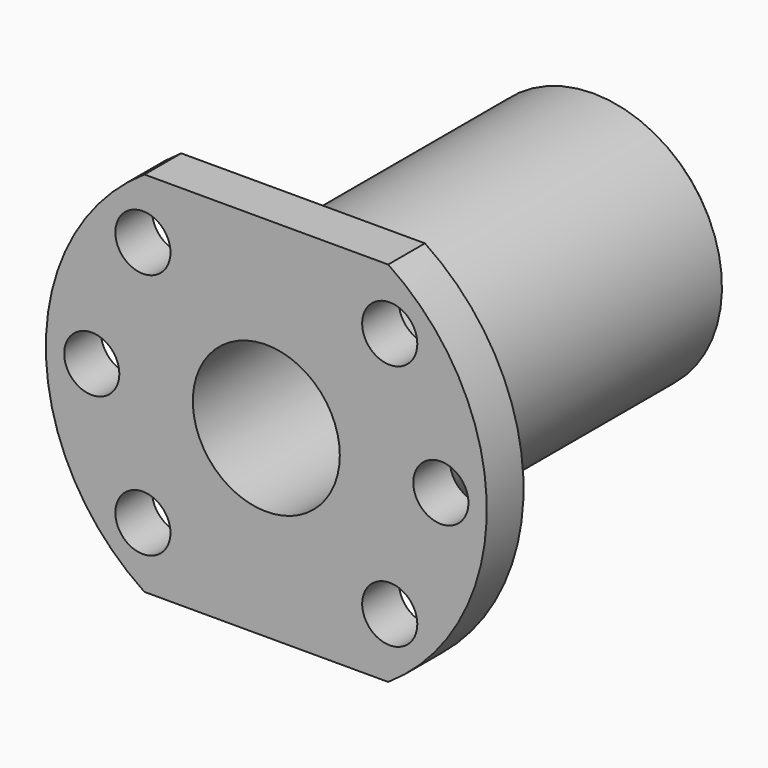
from build123d import *

# Parameters (mm, degrees)
F0_W     = 40
F0_H     = 14
F2_W     = 26.532998
F2_H     = 7.604173
F2_H_2   = 9.77986
F3_DEPTH = 5
F4_R     = 8
F5_DEPTH = 45
F6_R     = 3
F7_DEPTH = 5
F8_SIZE  = 0.5


with BuildPart() as f1:
    # F0 (on Right) → F1 (revolve)
    with BuildSketch(Plane.YZ):
        with Locations((20, 7)):
            Rectangle(F0_W, F0_H)
        Polygon((-5, 0), (0, 0), (0, 14), (0, 24), (-5, 24), align=None)
    revolve(axis=Axis((0, 20, 0), (0, 1, 0)))

    # F2 (on face) → F3 (cut)
    with BuildSketch(Plane.XZ.offset(5)):
        with Locations((0, 23.802087)):
            Rectangle(F2_W, F2_H)
        with Locations((0, -24.88993)):
            Rectangle(F2_W, F2_H_2)
    extrude(amount=-F3_DEPTH, mode=Mode.SUBTRACT)

    # F4 (on face) → F5 (cut)
    with BuildSketch(Plane.XZ.offset(5)):
        Circle(F4_R)
    extrude(amount=-F5_DEPTH, mode=Mode.SUBTRACT)

    # F6 (on face) → F7 (cut)
    with BuildSketch(Plane.XZ.offset(5)):
        with Locations((-13.435029, 13.435029)):
            Circle(F6_R)
        with Locations((13.435029, 13.435029)):
            Circle(F6_R)
        with Locations((13.435029, -13.435029)):
            Circle(F6_R)
        with Locations((-13.435029, -13.435029)):
            Circle(F6_R)
        with Locations((-19, 0)):
            Circle(F6_R)
        with Locations((19, 0)):
            Circle(F6_R)
    extrude(amount=-F7_DEPTH, mode=Mode.SUBTRACT)

    # F8
    f8_edges = [f1.edges().sort_by_distance(p)[0] for p in [
        (0, 40, -14),
    ]]
    chamfer(f8_edges, length=F8_SIZE)


solid = f1.part
